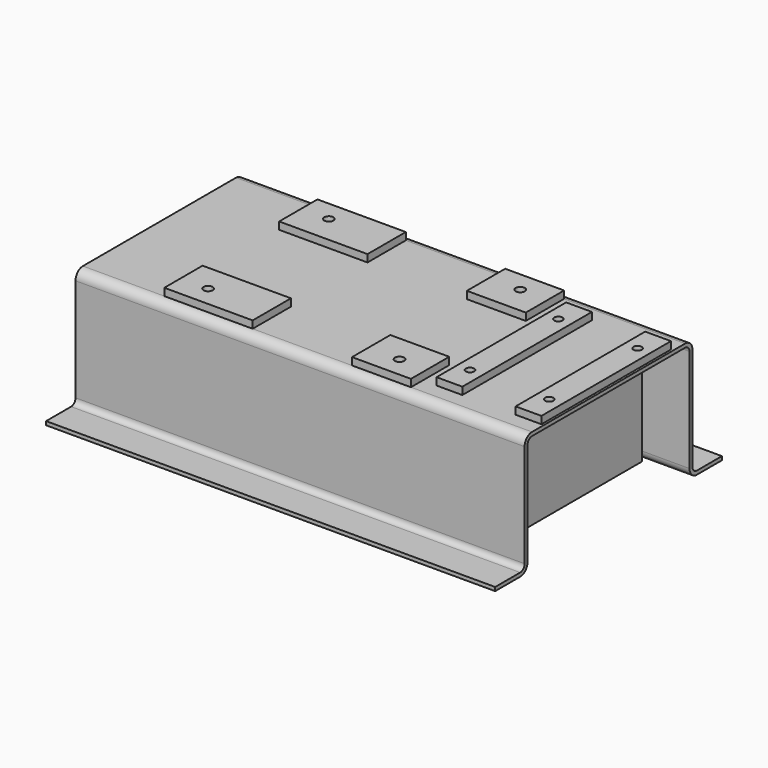
from build123d import *

# Parameters (mm, degrees)
F1_DEPTH = 774.7
F2_W     = 304.8
F2_H     = 165.1
F2_R     = 15.875
F2_W_2   = 203.2
F3_DEPTH = 25.4
F4_W     = 88.9
F4_H     = 558.8
F4_R     = 14.2875
F5_DEPTH = 38.1
F6_W     = 12.7
F6_H     = 698.5
F7_DEPTH = 406.4


with BuildPart() as f1:
    # F0 (on Right) → F1 (new body, symmetric)
    with BuildSketch(Plane.YZ):
        with BuildLine():
            Line((-488.95, 12.7), (-488.95, 0))
            Line((-488.95, 0), (-381, 0))
            ThreePointArc((-381, 0), (-358.54936, 9.29936), (-349.25, 31.75))
            Line((-349.25, 31.75), (-349.25, 387.35))
            ThreePointArc((-349.25, 387.35), (-343.670384, 400.820384), (-330.2, 406.4))
            Line((-330.2, 406.4), (0, 406.4))
            Line((0, 406.4), (0, 419.1))
            Line((0, 419.1), (-330.2, 419.1))
            ThreePointArc((-330.2, 419.1), (-352.65064, 409.80064), (-361.95, 387.35))
            Line((-361.95, 387.35), (-361.95, 31.75))
            ThreePointArc((-361.95, 31.75), (-367.529616, 18.279616), (-381, 12.7))
            Line((-381, 12.7), (-488.95, 12.7))
        make_face()
        with BuildLine():
            Line((0, 419.1), (0, 406.4))
            Line((0, 406.4), (330.2, 406.4))
            ThreePointArc((330.2, 406.4), (343.670384, 400.820384), (349.25, 387.35))
            Line((349.25, 387.35), (349.25, 31.75))
            ThreePointArc((349.25, 31.75), (358.54936, 9.29936), (381, 0))
            Line((381, 0), (488.95, 0))
            Line((488.95, 0), (488.95, 12.7))
            Line((488.95, 12.7), (381, 12.7))
            ThreePointArc((381, 12.7), (367.529616, 18.279616), (361.95, 31.75))
            Line((361.95, 31.75), (361.95, 387.35))
            ThreePointArc((361.95, 387.35), (352.65064, 409.80064), (330.2, 419.1))
            Line((330.2, 419.1), (0, 419.1))
        make_face()
    extrude(amount=F1_DEPTH, both=True)

    # F2 (on face) → F3 (join)
    with BuildSketch(Plane.XY.offset(419.1)):
        with Locations((-341.376, 247.65)):
            Rectangle(F2_W, F2_H)
        with Locations((-398.526, 260.35)):
            Circle(F2_R, mode=Mode.SUBTRACT)
        with Locations((255.524, 247.65)):
            Rectangle(F2_W_2, F2_H)
        with Locations((261.874, 260.35)):
            Circle(F2_R, mode=Mode.SUBTRACT)
        with Locations((-341.376, -247.65)):
            Rectangle(F2_W, F2_H)
        with Locations((-398.526, -260.35)):
            Circle(F2_R, mode=Mode.SUBTRACT)
        with Locations((255.524, -247.65)):
            Rectangle(F2_W_2, F2_H)
        with Locations((261.874, -260.35)):
            Circle(F2_R, mode=Mode.SUBTRACT)
    extrude(amount=F3_DEPTH)

    # F4 (on face) → F5 (join, through all)
    with BuildSketch(Plane(origin=(0, 0, 406.4), x_dir=(1, 0, 0), z_dir=(0, 0, -1))):
        with Locations((449.326, 0)):
            Rectangle(F4_W, F4_H)
        with Locations((449.072, -190.5)):
            Circle(F4_R, mode=Mode.SUBTRACT)
        with Locations((449.072, 190.5)):
            Circle(F4_R, mode=Mode.SUBTRACT)
        with Locations((722.122, 0)):
            Rectangle(F4_W, F4_H)
        with Locations((722.376, -190.5)):
            Circle(F4_R, mode=Mode.SUBTRACT)
        with Locations((722.376, 190.5)):
            Circle(F4_R, mode=Mode.SUBTRACT)
    extrude(amount=-F5_DEPTH)

    # F6 (on face) → F7 (join, through all)
    with BuildSketch(Plane(origin=(0, 0, 406.4), x_dir=(1, 0, 0), z_dir=(0, 0, -1))):
        with Locations((-487.426, 0)):
            Rectangle(F6_W, F6_H)
        with Locations((160.274, 0)):
            Rectangle(F6_W, F6_H)
        with Locations((604.774, 0)):
            Rectangle(F6_W, F6_H)
    extrude(amount=F7_DEPTH)


solid = f1.part
